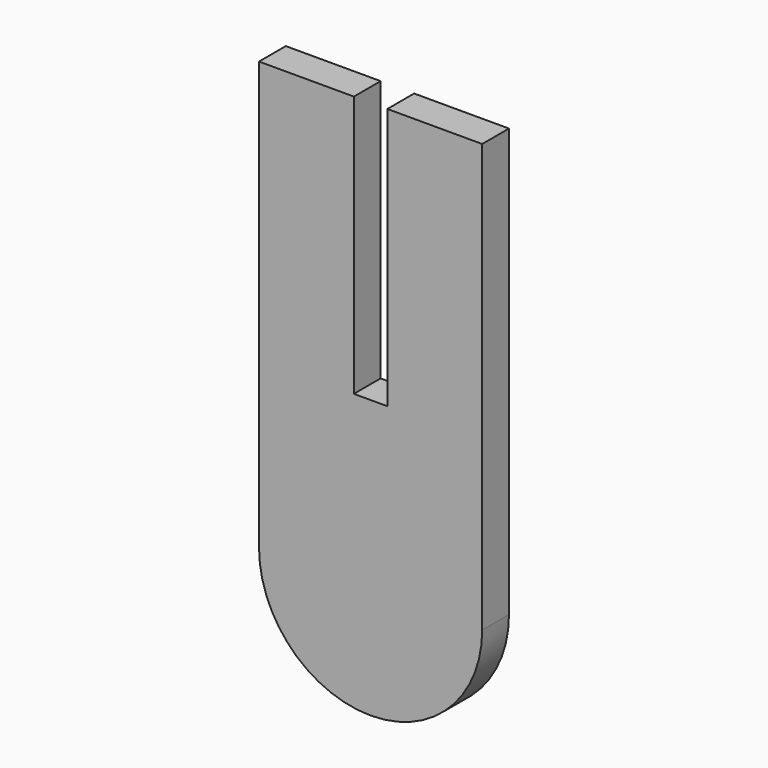
from build123d import *

# Parameters (mm, degrees)
F1_DEPTH = 3


with BuildPart() as f1:
    # F0 (on Front) → F1 (new body)
    with BuildSketch(Plane.XZ):
        with BuildLine():
            Line((-16.78457, 38.34), (-25.28457, 38.34))
            Line((-25.28457, 38.34), (-25.28457, 0))
            ThreePointArc((-25.28457, 0), (-15.28457, -10), (-5.28457, 0))
            Line((-5.28457, 0), (-5.28457, 38.34))
            Line((-5.28457, 38.34), (-13.78457, 38.34))
            Line((-13.78457, 38.34), (-13.78457, 14.89))
            Line((-13.78457, 14.89), (-16.78457, 14.89))
            Line((-16.78457, 14.89), (-16.78457, 38.34))
        make_face()
    extrude(amount=F1_DEPTH)


solid = f1.part
